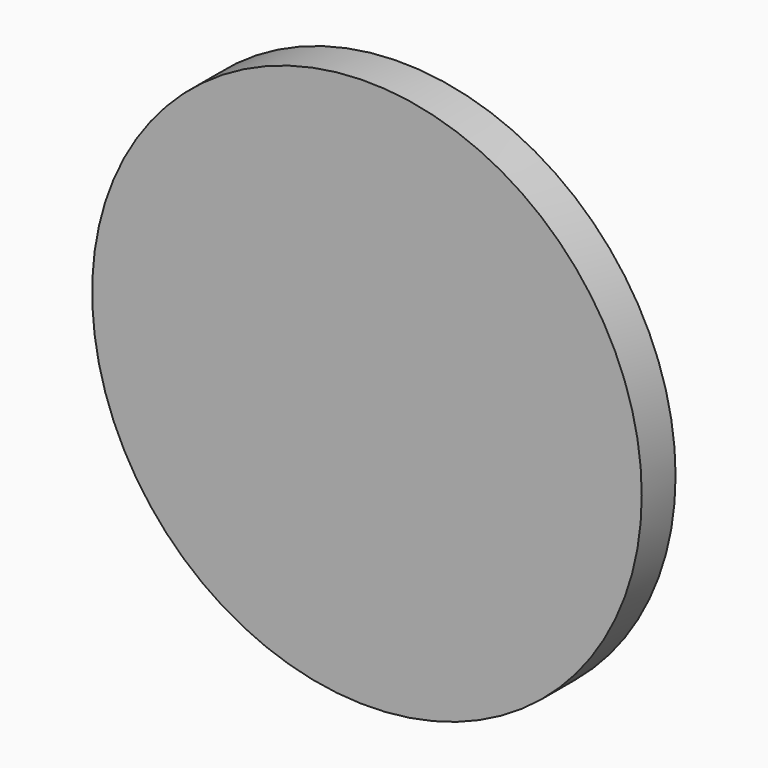
from build123d import *

# Parameters (mm, degrees)
F0_R     = 13
F0_R_2   = 10
F1_DEPTH = 2
F0_R_3   = 8.5
F2_DEPTH = 4
F3_DEPTH = 2


with BuildPart() as f1:
    # F0 (on Front) → F1 (new body)
    with BuildSketch(Plane.XZ):
        Circle(F0_R)
        Circle(F0_R_2, mode=Mode.SUBTRACT)
    extrude(amount=-F1_DEPTH)

    # F0 (on Front) → F2 (join)
    with BuildSketch(Plane.XZ):
        Circle(F0_R_2)
        Circle(F0_R_3, mode=Mode.SUBTRACT)
    extrude(amount=-F2_DEPTH)

    # F0 (on Front) → F3 (join)
    with BuildSketch(Plane.XZ):
        Circle(F0_R_3)
    extrude(amount=-F3_DEPTH)


solid = f1.part
